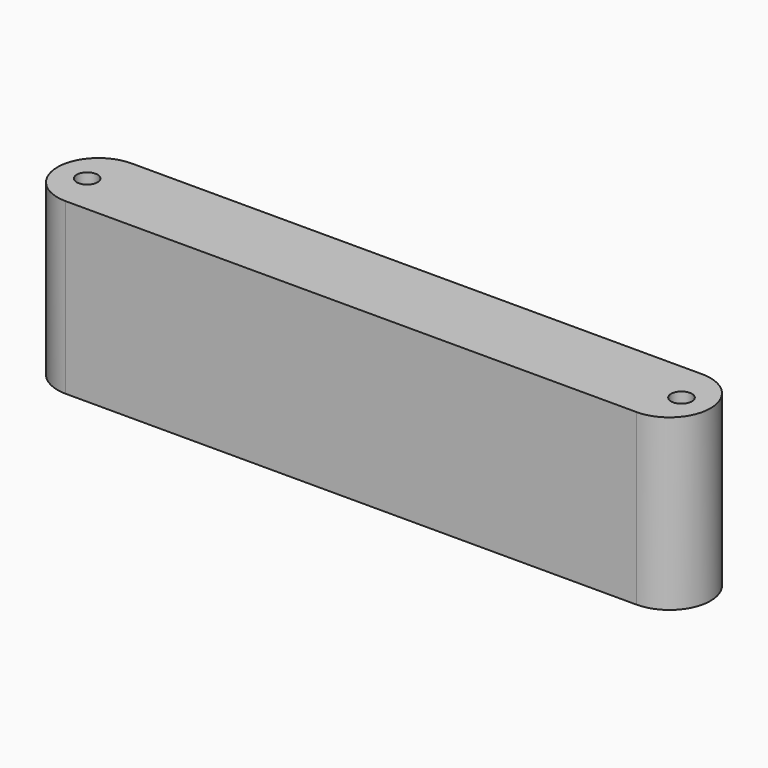
from build123d import *

# Parameters (mm, degrees)
F0_W     = 120
F0_H     = 31
F1_DEPTH = 15
F2_R     = 1.9
F3_DEPTH = 60
F5_DEPTH = 70
F6_R     = 1.9
F7_DEPTH = 80
F9_DEPTH = 70


with BuildPart() as f1:
    # F0 (on Front) → F1 (new body)
    with BuildSketch(Plane.XZ):
        with Locations((-32.620786, -3.705296)):
            Rectangle(F0_W, F0_H)
    extrude(amount=F1_DEPTH)

    # F2 (on face) → F3 (cut)
    with BuildSketch(Plane(origin=(0, 0, -19.205296), x_dir=(1, 0, 0), z_dir=(0, 0, -1))):
        with Locations((21.879214, 7.5)):
            Circle(F2_R)
    extrude(amount=-F3_DEPTH, mode=Mode.SUBTRACT)

    # F4 (on face) → F5 (cut)
    with BuildSketch(Plane(origin=(0, 0, -19.205296), x_dir=(1, 0, 0), z_dir=(0, 0, -1))):
        with BuildLine():
            ThreePointArc((-84.706673, 0), (-92.206673, 7.5), (-84.706673, 15))
            Line((-84.706673, 15), (-92.620786, 15))
            Line((-92.620786, 15), (-92.620786, 0))
            Line((-92.620786, 0), (-84.706673, 0))
        make_face()
    extrude(amount=-F5_DEPTH, mode=Mode.SUBTRACT)

    # F6 (on face) → F7 (cut)
    with BuildSketch(Plane(origin=(0, 0, -19.205296), x_dir=(1, 0, 0), z_dir=(0, 0, -1))):
        with Locations((-86.707558, 7.5987)):
            Circle(F6_R)
    extrude(amount=-F7_DEPTH, mode=Mode.SUBTRACT)

    # F8 (on face) → F9 (cut)
    with BuildSketch(Plane(origin=(0, 0, -19.205296), x_dir=(1, 0, 0), z_dir=(0, 0, -1))):
        with BuildLine():
            ThreePointArc((19.677406, 15), (27.177406, 7.5), (19.677406, 0))
            Line((19.677406, 0), (27.379214, 0))
            Line((27.379214, 0), (27.379214, 15))
            Line((27.379214, 15), (19.677406, 15))
        make_face()
    extrude(amount=-F9_DEPTH, mode=Mode.SUBTRACT)


solid = f1.part
